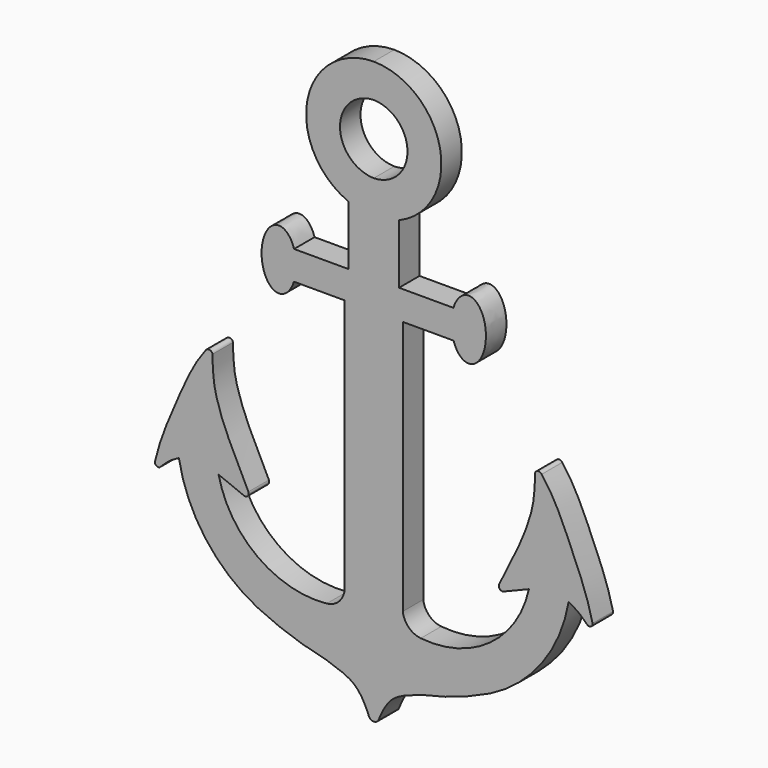
from build123d import *

# Parameters (mm, degrees)
F1_DEPTH = 2.5


with BuildPart() as f1:
    # F0 (on Front) → F1 (new body)
    with BuildSketch(Plane.XZ):
        Polygon((19.9702170016, 32.0593795983), (15.0368500231, 32.0593795983), (15.0368500231, 26.2546902991), (9.737966444, 26.2546902991), (9.7163520504, 23.4430860728), (14.649162069, 23.4430860728), (14.649162069, -1.4119866537), (14.6655309945, -1.4119866537), (20.3415360302, -1.4119866537), (20.3579049557, -1.4119866537), (20.3579049557, 23.4430860728), (25.2907149743, 23.4430860728), (25.2767818304, 26.2546902991), (25.2691005807, 26.2546902991), (19.9702170016, 26.2546902991), align=None)
        with BuildLine():
            add(Edge.make_bspline(
                [(25.2907149743, 23.4430860728), (26.2882305831, 20.365262945), (27.8484616427, 22.637675937), (29.4086927023, 24.9100889291), (27.8261704411, 27.1358736943), (26.2436481799, 29.3616584594), (25.2767818304, 26.2546902991)],
                knots=[2.0818835057, 2.0818835057, 2.0818835057, 3.8412701203, 3.8412701203, 5.6006567348, 5.6006567348, 7.3600433494, 7.3600433494, 7.3600433494], degree=2, weights=[1, 0.6373874942, 1, 0.6373874942, 1, 0.6373874942, 1]))
            Line((25.2767818304, 26.2546902991), (25.2907149743, 23.4430860728))
        make_face()
        with BuildLine():
            ThreePointArc((19.9702170016, 32.0593795983), (23.9805343506, 39.4793828594), (17.5035335124, 44.8819335324))
            ThreePointArc((17.5035335124, 44.8819335324), (11.0265326741, 39.4793828594), (15.0368500231, 32.0593795983))
            Line((15.0368500231, 32.0593795983), (19.9702170016, 32.0593795983))
        make_face()
        with BuildLine():
            ThreePointArc((17.5035335124, 34.864031021), (14.2101902268, 38.22103329), (17.5035335124, 41.578035559))
            ThreePointArc((17.5035335124, 41.578035559), (20.796876798, 38.22103329), (17.5035335124, 34.864031021))
        make_face(mode=Mode.SUBTRACT)
        with BuildLine():
            Line((9.7163520504, 23.4430860728), (9.737966444, 26.2546902991))
            Line((9.737966444, 26.2546902991), (9.7302851943, 26.2546902991))
            add(Edge.make_bspline(
                [(9.7302851943, 26.2546902991), (8.7634188448, 29.3616584594), (7.1808965836, 27.1358736943), (5.5983743224, 24.9100889291), (7.158605382, 22.637675937), (8.7188364416, 20.365262945), (9.7163520504, 23.4430860728)],
                knots=[5.206327265, 5.206327265, 5.206327265, 6.9657138795, 6.9657138795, 8.7251004941, 8.7251004941, 10.4844871087, 10.4844871087, 10.4844871087], degree=2, weights=[1, 0.6373874942, 1, 0.6373874942, 1, 0.6373874942, 1]))
        make_face()
        with BuildLine():
            Line((20.3415360302, -1.4119866537), (14.6655309945, -1.4119866537))
            ThreePointArc((14.6655309945, -1.4119866537), (14.104262397, -2.601770472), (12.9159725396, -3.1661951243))
            ThreePointArc((12.9159725396, -3.1661951243), (6.1837849457, -1.3494681757), (2.3638433989, 4.4841321865))
            Line((2.3638433989, 4.4841321865), (-1.5069706133, 4.6396357939))
            ThreePointArc((-1.5069706133, 4.6396357939), (1.0924430649, -1.4370902061), (6.1424945269, -5.7009535458))
            ThreePointArc((6.1424945269, -5.7009535458), (9.411755425, -7.0527797683), (12.8207588568, -7.9983994365))
            add(Edge.make_bspline(
                [(12.8207588568, -7.9983994365), (13.2286113889, -8.1298598572), (14.030525637, -8.3883355957), (15.1474289659, -8.8652634772), (16.0285297181, -9.5488398221), (16.7051850381, -10.7003064264), (16.9278864722, -11.2527367175), (17.0273277909, -11.4994095638)],
                knots=[0, 0, 0, 0, 0.2115418785, 0.4159308405, 0.6130256954, 0.8272070618, 1, 1, 1, 1], degree=3))
            ThreePointArc((17.0273277909, -11.4994095638), (17.2146874841, -11.731113087), (17.5035335124, -11.8043124676))
            ThreePointArc((17.5035335124, -11.8043124676), (17.7923795406, -11.731113087), (17.9797392339, -11.4994095638))
            add(Edge.make_bspline(
                [(22.1863081679, -7.9983994365), (21.7784556358, -8.1298598572), (20.9765413877, -8.3883355957), (19.8596380588, -8.8652634772), (18.9785373066, -9.5488398221), (18.3018819866, -10.7003064264), (18.0791805525, -11.2527367175), (17.9797392339, -11.4994095638)],
                knots=[0, 0, 0, 0, 0.2115418785, 0.4159308405, 0.6130256954, 0.8272070618, 1, 1, 1, 1], degree=3))
            ThreePointArc((22.1863081679, -7.9983994365), (25.5953115998, -7.0527797683), (28.8645724978, -5.7009535458))
            ThreePointArc((28.8645724978, -5.7009535458), (33.9146239598, -1.4370902061), (36.514037638, 4.6396357939))
            Line((36.514037638, 4.6396357939), (32.6432236258, 4.4841321865))
            ThreePointArc((32.6432236258, 4.4841321865), (28.823282079, -1.3494681757), (22.0910944851, -3.1661951243))
            ThreePointArc((22.0910944851, -3.1661951243), (20.9028046278, -2.601770472), (20.3415360302, -1.4119866537))
        make_face()
        with BuildLine():
            Line((-1.5069706133, 4.6396357939), (2.3638433989, 4.4841321865))
            Line((2.3638433989, 4.4841321865), (4.8265583094, 3.4840409858))
            ThreePointArc((4.8265583094, 3.4840409858), (5.207101451, 3.5650237911), (5.2730236415, 3.9484629156))
            add(Edge.make_bspline(
                [(5.2730236415, 3.9484629156), (4.3093190608, 5.8568781898), (2.6415257191, 9.1595939302), (1.7918217485, 12.3374978629), (1.7806474113, 13.9165389117), (1.7755767331, 14.6330744028)],
                knots=[0, 0, 0, 0, 0.4277955284, 0.7403456912, 1, 1, 1, 1], degree=3))
            ThreePointArc((1.7755767331, 14.6330744028), (1.4853684877, 14.9141883565), (1.1110873893, 14.7620057687))
            add(Edge.make_bspline(
                [(1.1110873893, 14.7620057687), (0, 13.3479235297), (-1.5371329646, 9.9603936039), (-3.3933382019, 5.6264709941), (-3.8495825403, 3.5681225897)],
                knots=[0, 0, 0, 0, 0.4745849169, 1, 1, 1, 1], degree=3))
            ThreePointArc((-3.8495825403, 3.5681225897), (-3.713409423, 3.2620784428), (-3.3794315532, 3.2362923957))
            add(Edge.make_bspline(
                [(-3.3794315532, 3.2362923957), (-3.0844818323, 3.5324643819), (-2.5082629775, 4.1110710752), (-1.8354097748, 4.4662585074), (-1.5069706133, 4.6396357939)],
                knots=[0, 0, 0, 0, 0.5118709991, 1, 1, 1, 1], degree=3))
        make_face()
        with BuildLine():
            Line((30.1805087153, 3.4840409858), (32.6432236258, 4.4841321865))
            Line((32.6432236258, 4.4841321865), (36.514037638, 4.6396357939))
            add(Edge.make_bspline(
                [(38.3864985779, 3.2362923957), (38.091548857, 3.5324643819), (37.5153300022, 4.1110710752), (36.8424767996, 4.4662585074), (36.514037638, 4.6396357939)],
                knots=[0, 0, 0, 0, 0.5118709991, 1, 1, 1, 1], degree=3))
            ThreePointArc((38.3864985779, 3.2362923957), (38.7204764477, 3.2620784428), (38.856649565, 3.5681225897))
            add(Edge.make_bspline(
                [(33.8959796354, 14.7620057687), (35.0070670247, 13.3479235297), (36.5441999893, 9.9603936039), (38.4004052267, 5.6264709941), (38.856649565, 3.5681225897)],
                knots=[0, 0, 0, 0, 0.4745849169, 1, 1, 1, 1], degree=3))
            ThreePointArc((33.8959796354, 14.7620057687), (33.521698537, 14.9141883565), (33.2314902917, 14.6330744028))
            add(Edge.make_bspline(
                [(29.7340433832, 3.9484629156), (30.6977479639, 5.8568781898), (32.3655413056, 9.1595939302), (33.2152452762, 12.3374978629), (33.2264196134, 13.9165389117), (33.2314902917, 14.6330744028)],
                knots=[0, 0, 0, 0, 0.4277955284, 0.7403456912, 1, 1, 1, 1], degree=3))
            ThreePointArc((29.7340433832, 3.9484629156), (29.7999655737, 3.5650237911), (30.1805087153, 3.4840409858))
        make_face()
    extrude(amount=F1_DEPTH)


solid = f1.part
